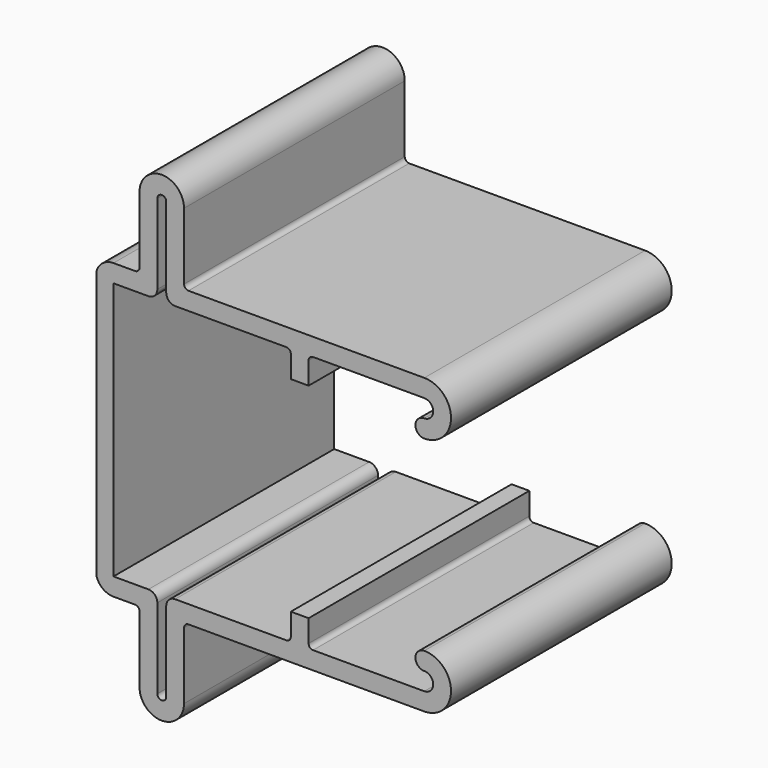
from build123d import *

# Parameters (mm, degrees)
F1_DEPTH = 31


with BuildPart() as f1:
    # F0 (on Front) → F1 (new body)
    with BuildSketch(Plane.XZ):
        with BuildLine():
            ThreePointArc((-27.04216, 26.818232), (-26.895713, 27.171786), (-26.54216, 27.318232))
            Line((-26.54216, 27.318232), (-14.04216, 27.318232))
            ThreePointArc((-14.04216, 27.318232), (-13.04216, 26.318232), (-14.04216, 25.318232))
            ThreePointArc((-14.04216, 25.318232), (-15.04216, 24.318232), (-14.04216, 23.318232))
            ThreePointArc((-14.04216, 23.318232), (-11.04216, 26.318232), (-14.04216, 29.318232))
            Line((-14.04216, 29.318232), (-40.54216, 29.318232))
            ThreePointArc((-40.54216, 29.318232), (-40.895713, 29.464679), (-41.04216, 29.818232))
            Line((-41.04216, 29.818232), (-41.04216, 37.318232))
            ThreePointArc((-41.04216, 37.318232), (-43.54216, 39.818232), (-46.04216, 37.318233))
            Line((-46.04216, 37.318233), (-46.04216, 29.818232))
            ThreePointArc((-46.04216, 29.818232), (-46.188606, 29.464679), (-46.54216, 29.318232))
            Line((-46.54216, 29.318232), (-48.968546, 29.318232))
            ThreePointArc((-48.968546, 29.318232), (-50.188189, 28.90331), (-50.901775, 27.830705))
            Line((-50.901775, 27.830705), (-50.901775, 12.818232))
            Line((-50.901775, 12.818232), (-50.901775, -2.19424))
            ThreePointArc((-50.901775, -2.19424), (-50.188189, -3.266846), (-48.968546, -3.681768))
            Line((-48.968546, -3.681768), (-46.54216, -3.681768))
            ThreePointArc((-46.54216, -3.681768), (-46.188606, -3.828214), (-46.04216, -4.181768))
            Line((-46.04216, -4.181768), (-46.04216, -11.681768))
            ThreePointArc((-46.04216, -11.681768), (-43.54216, -14.181768), (-41.04216, -11.681768))
            Line((-41.04216, -11.681768), (-41.04216, -4.181768))
            ThreePointArc((-41.04216, -4.181768), (-40.895713, -3.828214), (-40.54216, -3.681768))
            Line((-40.54216, -3.681768), (-14.04216, -3.681768))
            ThreePointArc((-14.04216, -3.681768), (-11.04216, -0.681768), (-14.04216, 2.318232))
            ThreePointArc((-14.04216, 2.318232), (-15.04216, 1.318232), (-14.04216, 0.318232))
            ThreePointArc((-14.04216, 0.318232), (-13.04216, -0.681768), (-14.04216, -1.681768))
            Line((-14.04216, -1.681768), (-26.54216, -1.681768))
            ThreePointArc((-26.54216, -1.681768), (-26.895713, -1.535321), (-27.04216, -1.181768))
            Line((-27.04216, -1.181768), (-27.04216, 1.318232))
            Line((-27.04216, 1.318232), (-29.04216, 1.318232))
            Line((-29.04216, 1.318232), (-29.04216, -1.181768))
            ThreePointArc((-29.04216, -1.181768), (-29.188606, -1.535321), (-29.54216, -1.681768))
            Line((-29.54216, -1.681768), (-42.04216, -1.681768))
            ThreePointArc((-42.04216, -1.681768), (-42.749267, -1.974661), (-43.04216, -2.681768))
            Line((-43.04216, -2.681768), (-43.04216, -11.681768))
            ThreePointArc((-43.04216, -11.681768), (-43.54216, -12.181768), (-44.04216, -11.681768))
            Line((-44.04216, -11.681768), (-44.04216, -2.681768))
            ThreePointArc((-44.04216, -2.681768), (-44.335053, -1.974661), (-45.04216, -1.681768))
            Line((-45.04216, -1.681768), (-48.968546, -1.681768))
            Line((-48.968546, -1.681768), (-48.968546, 12.818232))
            Line((-48.968546, 12.818232), (-48.968546, 27.318232))
            Line((-48.968546, 27.318232), (-45.04216, 27.318232))
            ThreePointArc((-45.04216, 27.318232), (-44.335053, 27.611126), (-44.04216, 28.318232))
            Line((-44.04216, 28.318232), (-44.04216, 37.318232))
            ThreePointArc((-44.04216, 37.318232), (-43.54216, 37.818232), (-43.04216, 37.318233))
            Line((-43.04216, 37.318233), (-43.04216, 28.318232))
            ThreePointArc((-43.04216, 28.318232), (-42.749267, 27.611126), (-42.04216, 27.318232))
            Line((-42.04216, 27.318232), (-29.54216, 27.318232))
            ThreePointArc((-29.54216, 27.318232), (-29.188606, 27.171786), (-29.04216, 26.818232))
            Line((-29.04216, 26.818232), (-29.04216, 24.318232))
            Line((-29.04216, 24.318232), (-27.04216, 24.318232))
            Line((-27.04216, 24.318232), (-27.04216, 26.818232))
        make_face()
    extrude(amount=F1_DEPTH)


solid = f1.part
